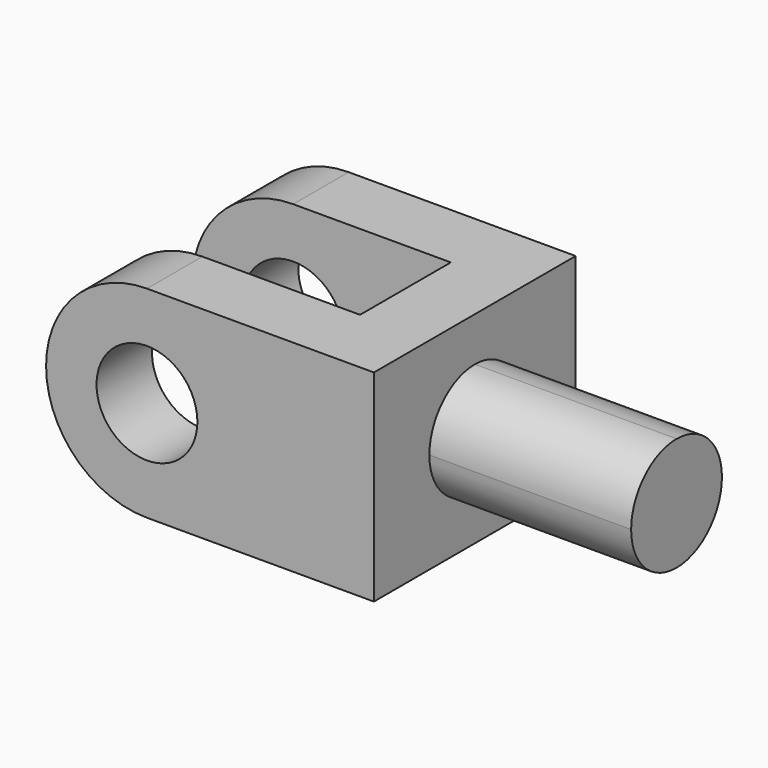
from build123d import *

# Parameters (mm, degrees)
F1_DEPTH = 812.8
F2_W     = 812.8
F2_H     = 177.8
F3_DEPTH = 736.601
F4_R     = 203.2
F5_DEPTH = 1016.001
F7_DEPTH = 812.8


with BuildPart() as f1:
    # F0 (on Top) → F1 (new body)
    with BuildSketch(Plane.XY):
        Polygon((1192.385533, 315.303055), (-128.414467, 315.303055), (-128.414467, 35.903055), (912.985533, 35.903055), (912.985533, -421.296945), (-128.414467, -421.296945), (-128.414467, -700.696945), (1192.385533, -700.696945), (1192.385533, -421.296945), (2005.185533, -421.296945), (2005.185533, 35.903055), (1192.385533, 35.903055), align=None)
    extrude(amount=-F1_DEPTH)

    # F2 (on face) → F3 (cut, through all)
    with BuildSketch(Plane.XZ.offset(421.296945)):
        with Locations((1598.785533, -88.9)):
            Rectangle(F2_W, F2_H)
        with Locations((1598.785533, -723.9)):
            Rectangle(F2_W, F2_H)
    extrude(amount=-F3_DEPTH, mode=Mode.SUBTRACT)

    # F4 (on face) → F5 (cut, through all)
    with BuildSketch(Plane.XZ.offset(700.696945)):
        with BuildLine():
            ThreePointArc((-128.414467, -406.4), (-9.382663, -119.031804), (277.985533, 0))
            Line((277.985533, 0), (-128.414467, 0))
            Line((-128.414467, 0), (-128.414467, -406.4))
        make_face()
        with BuildLine():
            ThreePointArc((277.985533, -812.8), (-9.382663, -693.768196), (-128.414467, -406.4))
            Line((-128.414467, -406.4), (-128.414467, -812.8))
            Line((-128.414467, -812.8), (277.985533, -812.8))
        make_face()
        with Locations((277.985533, -406.4)):
            Circle(F4_R)
    extrude(amount=-F5_DEPTH, mode=Mode.SUBTRACT)

    # F6 (on face) → F7 (cut)
    with BuildSketch(Plane.YZ.offset(2005.185533)):
        with BuildLine():
            Line((-421.296945, -635), (-192.696945, -635))
            ThreePointArc((-192.696945, -635), (-354.341555, -568.04461), (-421.296945, -406.4))
            Line((-421.296945, -406.4), (-421.296945, -635))
        make_face()
        with BuildLine():
            Line((35.903055, -635), (35.903055, -406.4))
            ThreePointArc((35.903055, -406.4), (-31.052335, -568.04461), (-192.696945, -635))
            Line((-192.696945, -635), (35.903055, -635))
        make_face()
        with BuildLine():
            ThreePointArc((-421.296945, -406.4), (-354.341555, -244.75539), (-192.696945, -177.8))
            Line((-192.696945, -177.8), (-421.296945, -177.8))
            Line((-421.296945, -177.8), (-421.296945, -406.4))
        make_face()
        with BuildLine():
            ThreePointArc((-192.696945, -177.8), (-31.052335, -244.75539), (35.903055, -406.4))
            Line((35.903055, -406.4), (35.903055, -177.8))
            Line((35.903055, -177.8), (-192.696945, -177.8))
        make_face()
    extrude(amount=-F7_DEPTH, mode=Mode.SUBTRACT)


solid = f1.part
